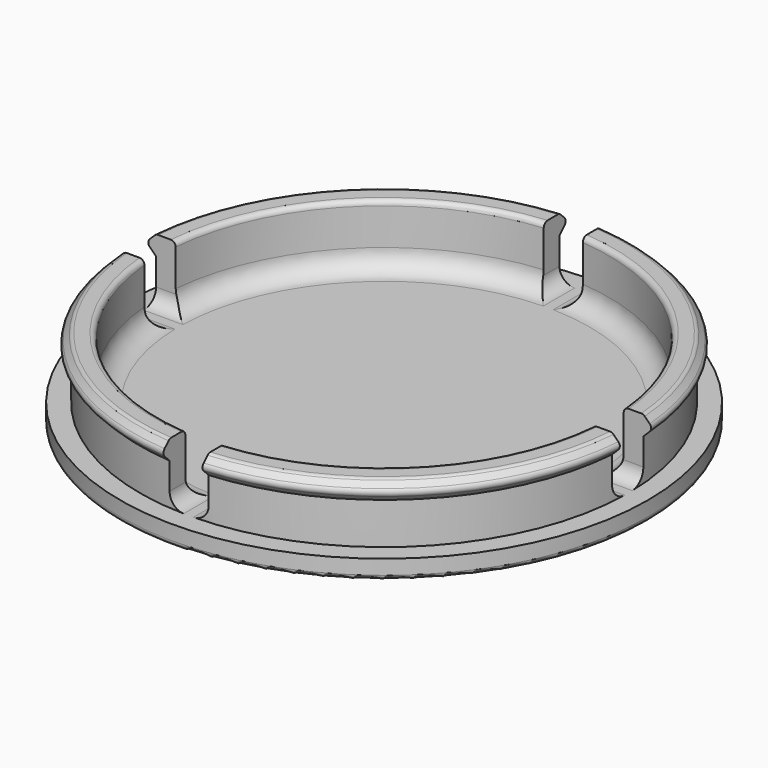
from build123d import *

# Parameters (mm, degrees)
F3_DEPTH      = 27.001
F3_DEPTH_BACK = 27.001
F5_DEPTH      = 27.0010001
F5_DEPTH_BACK = 27.0010001


with BuildPart() as f1:
    # F0 (on Front) → F1 (revolve)
    with BuildSketch(Plane.XZ):
        with BuildLine():
            Line((0, 0), (0, -2))
            Line((0, -2), (26.5, -2))
            ThreePointArc((26.5, -2), (26.8535533906, -1.8535533906), (27, -1.5))
            Line((27, -1.5), (27, 0))
            Line((27, 0), (25, 0))
            Line((25, 0), (25, 4.25))
            Line((25, 4.25), (25.6464466094, 4.8964466094))
            ThreePointArc((25.6464466094, 4.8964466094), (25.7928932188, 5.25), (25.6464466094, 5.6035533906))
            Line((25.6464466094, 5.6035533906), (25.1464466094, 6.1035533906))
            ThreePointArc((25.1464466094, 6.1035533906), (24.984234935, 6.2119397663), (24.7928932188, 6.25))
            Line((24.7928932188, 6.25), (23.5, 6.25))
            ThreePointArc((23.5, 6.25), (23.1464466094, 6.1035533906), (23, 5.75))
            Line((23, 5.75), (23, 2))
            ThreePointArc((23, 2), (22.4142135624, 0.5857864376), (21, 0))
            Line((21, 0), (0, 0))
        make_face()
    revolve(axis=Axis((0, 0, 12.0319147983), (0, 0, 1)))

    # F2 (on Front) → F3 (cut, two sides)
    with BuildSketch(Plane.XZ) as f3_sk:
        with BuildLine():
            Line((2, 20), (-2, 20))
            Line((-2, 20), (-2, 1.5))
            ThreePointArc((-2, 1.5), (-1.5606601718, 0.4393398282), (-0.5, 0))
            Line((-0.5, 0), (0.5, 0))
            ThreePointArc((0.5, 0), (1.5606601718, 0.4393398282), (2, 1.5))
            Line((2, 1.5), (2, 20))
        make_face()
    extrude(amount=F3_DEPTH, mode=Mode.SUBTRACT)
    extrude(f3_sk.sketch, amount=-F3_DEPTH_BACK, mode=Mode.SUBTRACT)

    # F4 (on Right) → F5 (cut, two sides)
    with BuildSketch(Plane.YZ) as f5_sk:
        with BuildLine():
            Line((2, 1.5), (2, 20))
            Line((2, 20), (-2, 20))
            Line((-2, 20), (-2, 1.5))
            ThreePointArc((-2, 1.5), (-1.5606601718, 0.4393398282), (-0.5, 0))
            Line((-0.5, 0), (0.5, 0))
            ThreePointArc((0.5, 0), (1.5606601718, 0.4393398282), (2, 1.5))
        make_face()
    extrude(amount=-F5_DEPTH, mode=Mode.SUBTRACT)
    extrude(f5_sk.sketch, amount=F5_DEPTH_BACK, mode=Mode.SUBTRACT)


solid = f1.part
